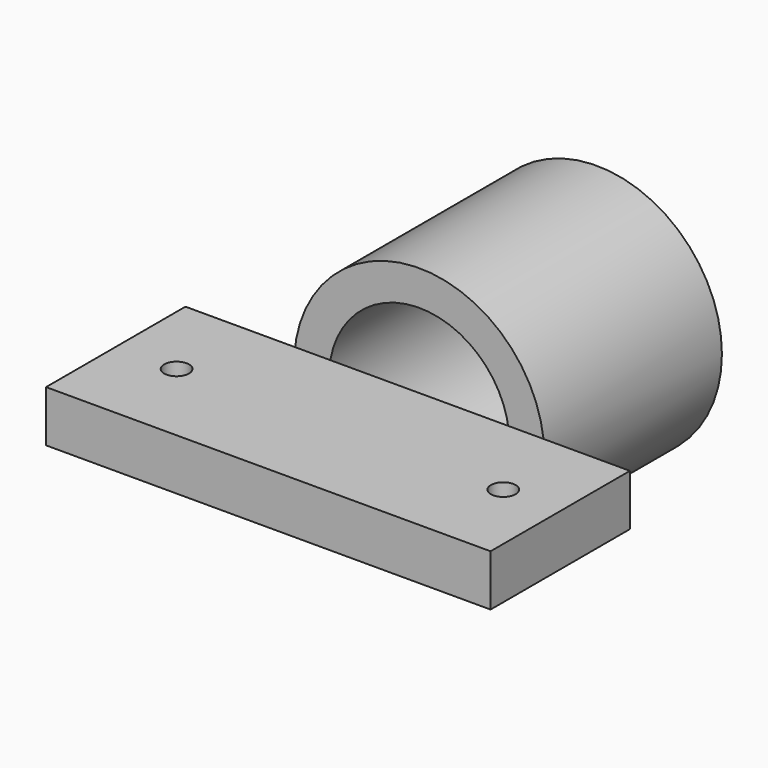
from build123d import *

# Parameters (mm, degrees)
F0_W     = 68.198008
F0_H     = 26.724867
F1_DEPTH = 7.874
F2_R     = 1.905
F3_DEPTH = 25.4
F4_R     = 19.206411
F4_R_2   = 13.843
F5_DEPTH = 34.036


with BuildPart() as f1:
    # F0 (on Top) → F1 (new body)
    with BuildSketch(Plane.XY):
        with Locations((4.873042, -55.714104)):
            Rectangle(F0_W, F0_H)
    extrude(amount=F1_DEPTH)

    # F2 (on face) → F3 (cut)
    with BuildSketch(Plane.XY.offset(7.874)):
        with Locations((-19.954395, -55.634532)):
            Circle(F2_R)
        with Locations((30.166939, -55.634532)):
            Circle(F2_R)
    extrude(amount=-F3_DEPTH, mode=Mode.SUBTRACT)


with BuildPart() as f5:
    # F4 (on Front) → F5 (new body)
    with BuildSketch(Plane.XZ):
        Circle(F4_R)
        Circle(F4_R_2, mode=Mode.SUBTRACT)
    extrude(amount=F5_DEPTH)


solid = Compound([f1.part, f5.part])
